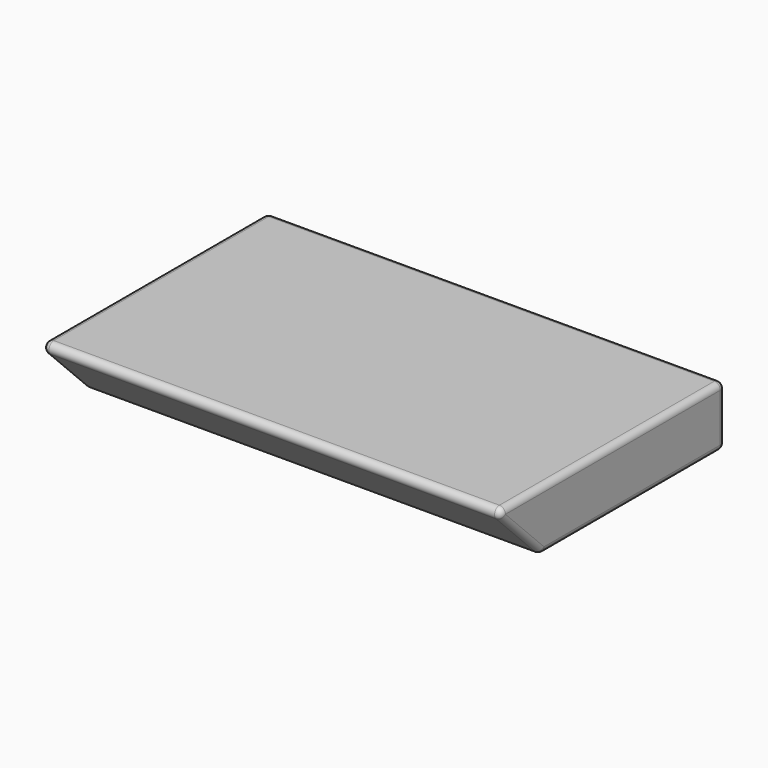
from build123d import *

# Parameters (mm, degrees)
PAD_DEPTH      = 380
PAD_DEPTH_BACK = 380
FILLET_R       = 10


with BuildPart() as part:
    # Sketch → Pad (new body, two sides)
    with BuildSketch(Plane.YZ) as pad_sk:
        Polygon((-380, 0), (-480, 100), (0, 100), (0, 0), align=None)
    extrude(amount=PAD_DEPTH)
    extrude(pad_sk.sketch, amount=-PAD_DEPTH_BACK)

    # Fillet
    fillet_edges = [part.edges().sort_by_distance(p)[0] for p in [
        (0, -480, 100),
        (0, 0, 100),
        (-380, -240, 100),
        (380, -240, 100),
        (0, -380, 0),
        (-380, -430, 50),
        (380, -430, 50),
        (380, 0, 50),
        (380, -190, 0),
        (0, 0, 0),
        (-380, 0, 50),
        (-380, -190, 0),
    ]]
    fillet(fillet_edges, radius=FILLET_R)


solid = part.part
